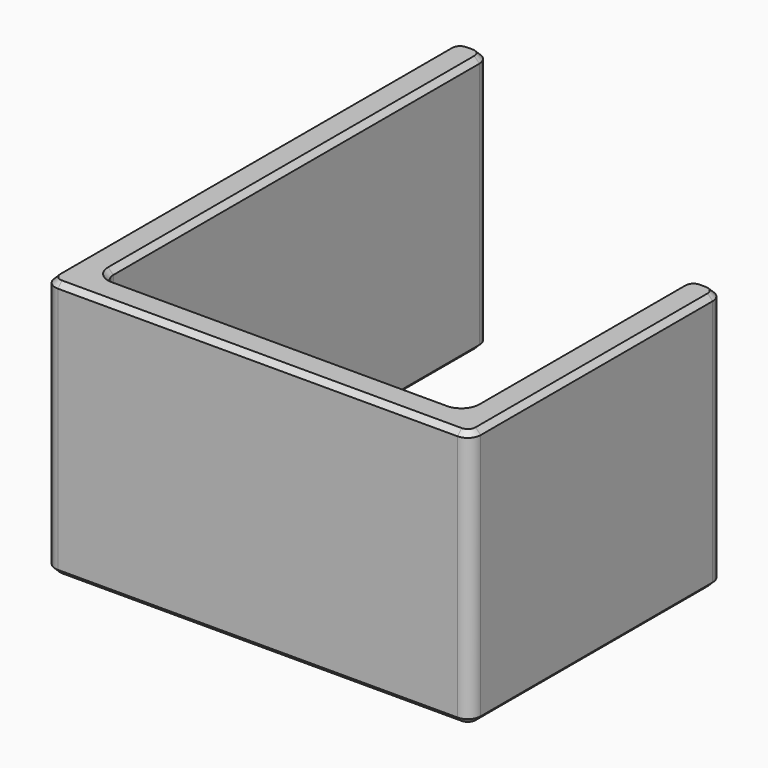
from build123d import *

# Parameters (mm, degrees)
PAD_DEPTH    = 20
FILLET_R     = 1
CHAMFER_SIZE = 0.4


with BuildPart() as part:
    # Sketch → Pad (new body)
    with BuildSketch(Plane.XY):
        Polygon((17.151947, 44.9952), (17.151947, 4.9952), (50.151947, 4.9952), (50.151947, 29.4952), (47.651947, 29.4952), (47.651947, 7.4952), (19.651947, 7.4952), (19.651947, 44.9952), align=None)
    extrude(amount=PAD_DEPTH)

    # Fillet
    fillet_edges = [part.edges().sort_by_distance(p)[0] for p in [
        (50.151947, 4.9952, 10),
        (17.151947, 4.9952, 10),
        (19.651947, 7.4952, 10),
        (17.151947, 44.9952, 10),
        (19.651947, 44.9952, 10),
        (47.651947, 7.4952, 10),
        (47.651947, 29.4952, 10),
        (50.151947, 29.4952, 10),
    ]]
    fillet(fillet_edges, radius=FILLET_R)

    # Chamfer
    chamfer_edges = [part.edges().sort_by_distance(p)[0] for p in [
        (17.151947, 24.9952, 20),
        (17.44484, 44.702307, 20),
        (17.44484, 5.288093, 20),
        (18.401947, 44.9952, 20),
        (33.651947, 4.9952, 20),
        (19.359054, 44.702307, 20),
        (49.859054, 5.288093, 20),
        (19.651947, 26.2452, 20),
        (50.151947, 17.2452, 20),
        (19.94484, 7.788093, 20),
        (49.859054, 29.202307, 20),
        (33.651947, 7.4952, 20),
        (48.901947, 29.4952, 20),
        (47.359054, 7.788093, 20),
        (47.94484, 29.202307, 20),
        (47.651947, 18.4952, 20),
        (17.151947, 24.9952, 0),
        (17.44484, 44.702307, 0),
        (17.44484, 5.288093, 0),
        (18.401947, 44.9952, 0),
        (33.651947, 4.9952, 0),
        (19.359054, 44.702307, 0),
        (49.859054, 5.288093, 0),
        (19.651947, 26.2452, 0),
        (50.151947, 17.2452, 0),
        (19.94484, 7.788093, 0),
        (49.859054, 29.202307, 0),
        (33.651947, 7.4952, 0),
        (48.901947, 29.4952, 0),
        (47.359054, 7.788093, 0),
        (47.94484, 29.202307, 0),
        (47.651947, 18.4952, 0),
    ]]
    chamfer(chamfer_edges, length=CHAMFER_SIZE)


solid = part.part
